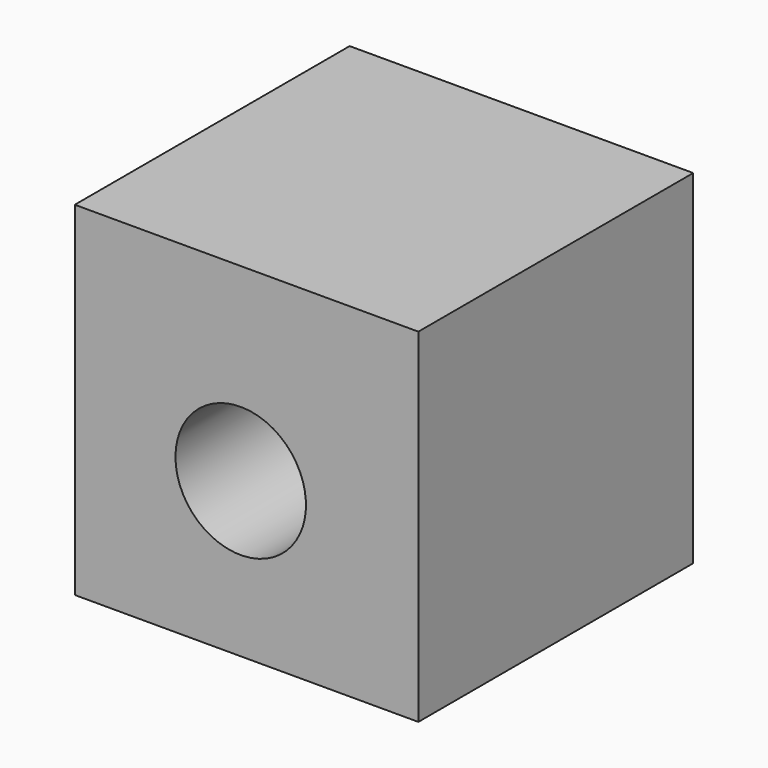
from build123d import *

# Parameters (mm, degrees)
F0_W     = 80
F0_H     = 80
F1_DEPTH = 80
F2_R     = 15.195843
F3_DEPTH = 80.001


with BuildPart() as f1:
    # F0 (on Top) → F1 (new body)
    with BuildSketch(Plane.XY):
        with Locations((-27.360803, 47.1628)):
            Rectangle(F0_W, F0_H)
    extrude(amount=F1_DEPTH)

    # F2 (on face) → F3 (cut, through all)
    with BuildSketch(Plane(origin=(0, 87.1628, 0), x_dir=(-1, 0, 0), z_dir=(0, 1, 0))):
        with Locations((28.726723, 35.946019)):
            Circle(F2_R)
    extrude(amount=-F3_DEPTH, mode=Mode.SUBTRACT)


solid = f1.part
